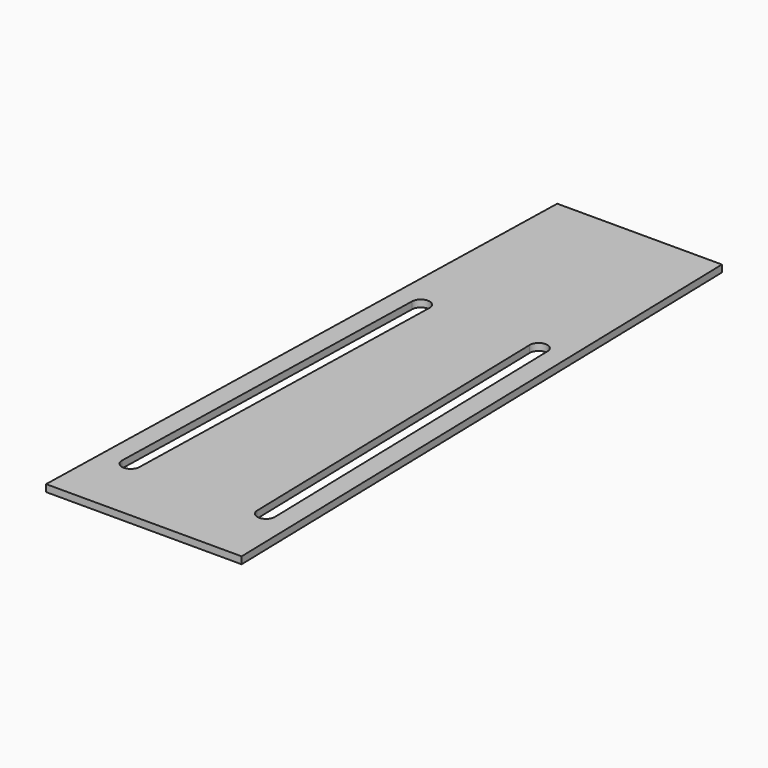
from build123d import *

# Parameters (mm, degrees)
F1_DEPTH = 2


with BuildPart() as f1:
    # F0 (on Top) → F1 (new body)
    with BuildSketch(Plane.XY):
        Polygon((27.954835, -79.590207), (23.561089, 96.622099), (-23.264273, 96.622099), (-27.658019, -79.590207), align=None)
        with BuildLine():
            Line((-21.592149, -60.128083), (-19.099485, 39.840846))
            ThreePointArc((-19.099485, 39.840846), (-16.537945, 42.277752), (-14.101039, 39.716212))
            Line((-14.101039, 39.716212), (-16.593702, -60.252716))
            ThreePointArc((-16.593702, -60.252716), (-19.155242, -62.689622), (-21.592149, -60.128083))
        make_face(mode=Mode.SUBTRACT)
        with BuildLine():
            ThreePointArc((14.397855, 39.716212), (16.834762, 42.277752), (19.396301, 39.840846))
            Line((19.396301, 39.840846), (21.888965, -60.128083))
            ThreePointArc((21.888965, -60.128083), (19.452058, -62.689622), (16.890518, -60.252716))
            Line((16.890518, -60.252716), (14.397855, 39.716212))
        make_face(mode=Mode.SUBTRACT)
    extrude(amount=F1_DEPTH)


solid = f1.part
